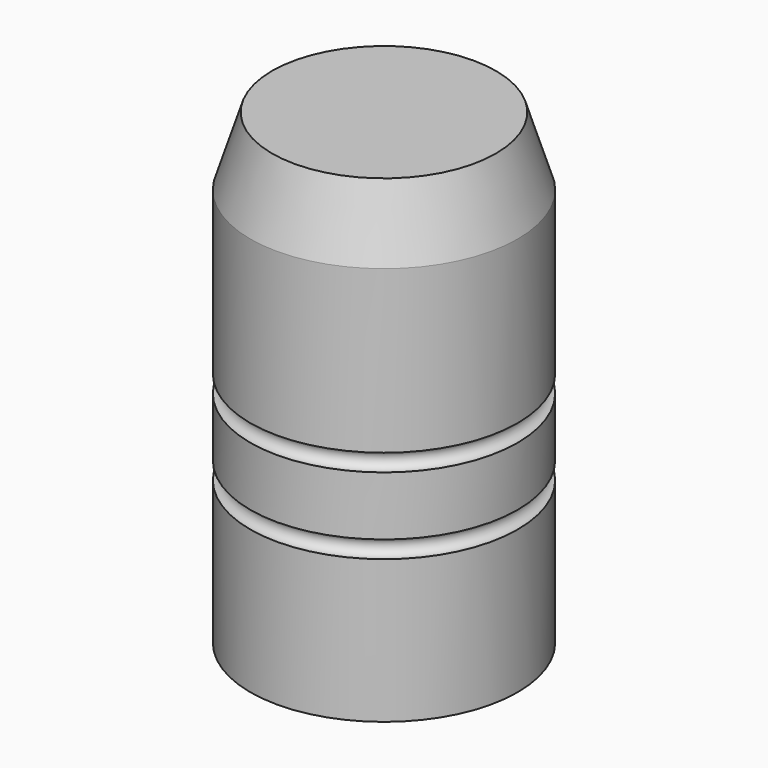
from build123d import *


with BuildPart() as f1:
    # F0 (on Front) → F1 (revolve)
    with BuildSketch(Plane.XZ):
        with BuildLine():
            Line((-24.5, -27.424296), (-24.5, -53.678745))
            Line((-24.5, -53.678745), (0, -53.678745))
            Line((0, -53.678745), (0, 31.942542))
            Line((0, 31.942542), (-20.513259, 31.942542))
            Line((-20.513259, 31.942542), (-24.5, 19.450302))
            Line((-24.5, 19.450302), (-24.5, -10.253348))
            ThreePointArc((-24.5, -10.253348), (-22.9125, -11.840848), (-24.5, -13.428348))
            Line((-24.5, -13.428348), (-24.5, -24.249437))
            ThreePointArc((-24.5, -24.249437), (-22.897572, -25.836866), (-24.5, -27.424296))
        make_face()
    revolve(axis=Axis((0, 0, 13.345955), (0, 0, -1)))


solid = f1.part
